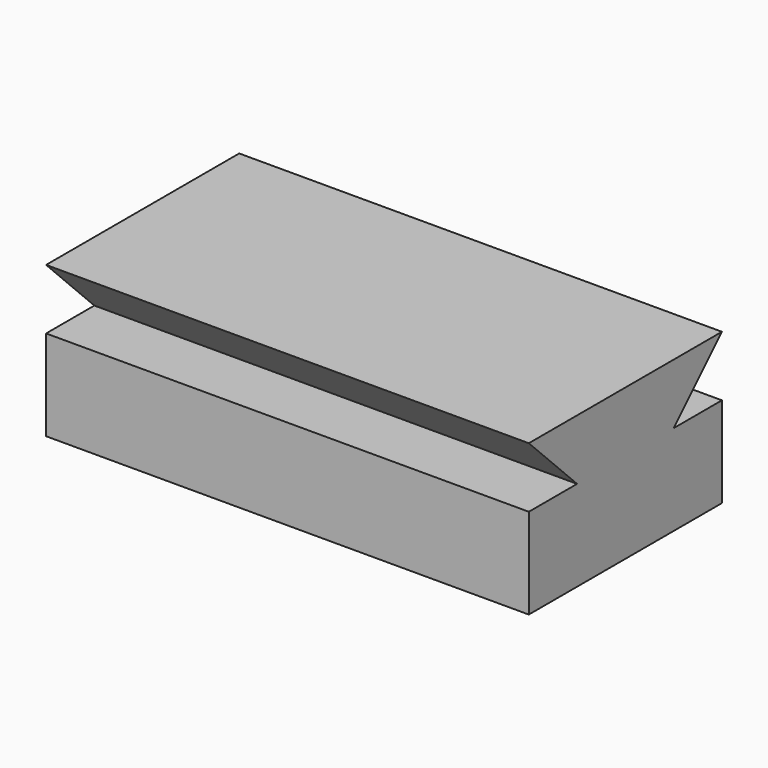
from build123d import *

# Parameters (mm, degrees)
F0_W     = 203.2
F0_H     = 101.6
F1_DEPTH = 63.5
F3_DEPTH = 203.2
F5_DEPTH = 203.2


with BuildPart() as f1:
    # F0 (on Top) → F1 (new body)
    with BuildSketch(Plane.XY):
        with Locations((-77.053841, 24.401637)):
            Rectangle(F0_W, F0_H)
    extrude(amount=F1_DEPTH)

    # F2 (on face) → F3 (cut)
    with BuildSketch(Plane.YZ.offset(24.546159)):
        Polygon((-0.998363, 38.1), (-26.398363, 63.5), (-26.398363, 38.1), align=None)
    extrude(amount=-F3_DEPTH, mode=Mode.SUBTRACT)

    # F4 (on face) → F5 (cut)
    with BuildSketch(Plane.YZ.offset(24.546159)):
        Polygon((75.201637, 38.1), (75.201637, 63.5), (49.801637, 38.1), align=None)
    extrude(amount=-F5_DEPTH, mode=Mode.SUBTRACT)


solid = f1.part
